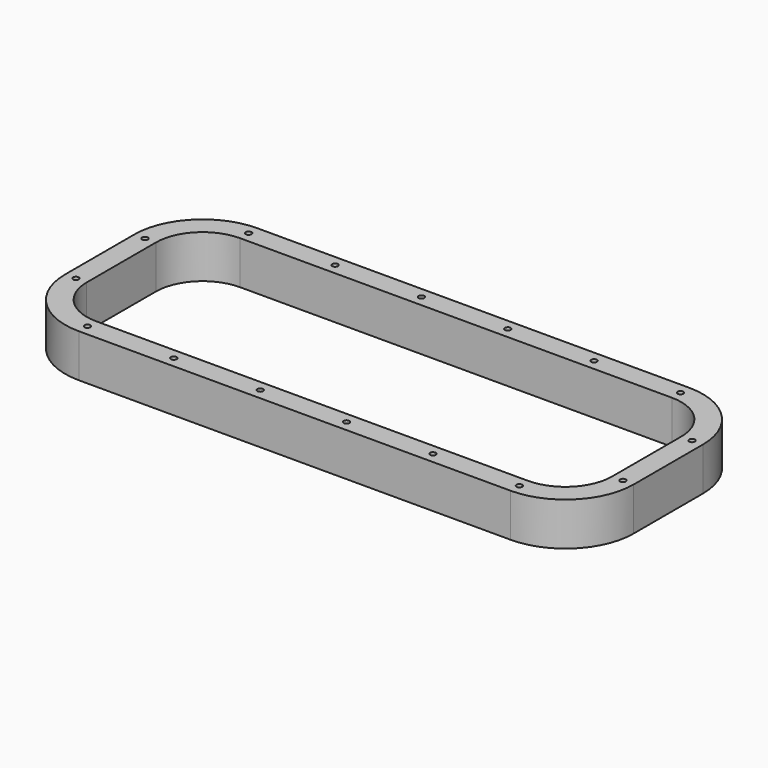
from build123d import *

# Parameters (mm, degrees)
F1_DEPTH = 19.05
F3_DEPTH = 38.101
F4_R     = 2.5527
F5_DEPTH = 38.101


with BuildPart() as f1:
    # F0 (on Top) → F1 (new body, symmetric)
    with BuildSketch(Plane.XY):
        with BuildLine():
            ThreePointArc((250.825, 38.1), (233.1562165751, 80.7562165751), (190.5, 98.425))
            Line((190.5, 98.425), (-190.5, 98.425))
            ThreePointArc((-190.5, 98.425), (-233.1562165751, 80.7562165751), (-250.825, 38.1))
            Line((-250.825, 38.1), (-250.825, -38.1))
            ThreePointArc((-250.825, -38.1), (-233.1562165751, -80.7562165751), (-190.5, -98.425))
            Line((-190.5, -98.425), (190.5, -98.425))
            ThreePointArc((190.5, -98.425), (233.1562165751, -80.7562165751), (250.825, -38.1))
            Line((250.825, -38.1), (250.825, 38.1))
        make_face()
    extrude(amount=F1_DEPTH, both=True)

    # F2 (on face) → F3 (cut, through all)
    with BuildSketch(Plane.XY.offset(19.05)):
        with BuildLine():
            Line((190.5, 79.375), (-190.5, 79.375))
            ThreePointArc((-190.5, 79.375), (-219.6858323935, 67.2858323935), (-231.775, 38.1))
            Line((-231.775, 38.1), (-231.775, -38.1))
            ThreePointArc((-231.775, -38.1), (-219.6858323935, -67.2858323935), (-190.5, -79.375))
            Line((-190.5, -79.375), (190.5, -79.375))
            ThreePointArc((190.5, -79.375), (219.6858323935, -67.2858323935), (231.775, -38.1))
            Line((231.775, -38.1), (231.775, 38.1))
            ThreePointArc((231.775, 38.1), (219.6858323935, 67.2858323935), (190.5, 79.375))
        make_face()
    extrude(amount=-F3_DEPTH, mode=Mode.SUBTRACT)

    # F4 (on face) → F5 (cut, through all)
    with BuildSketch(Plane.XY.offset(19.05)):
        with Locations((-190.5, 88.9)):
            Circle(F4_R)
        with Locations((-38.1, 88.9)):
            Circle(F4_R)
        with Locations((-114.3, 88.9)):
            Circle(F4_R)
        with Locations((38.1, 88.9)):
            Circle(F4_R)
        with Locations((114.3, 88.9)):
            Circle(F4_R)
        with Locations((190.5, 88.9)):
            Circle(F4_R)
        with Locations((241.3000668421, 38.1)):
            Circle(F4_R)
        with Locations((241.3000668421, -38.1)):
            Circle(F4_R)
        with Locations((190.5, -88.9)):
            Circle(F4_R)
        with Locations((114.3, -88.9)):
            Circle(F4_R)
        with Locations((38.1, -88.9)):
            Circle(F4_R)
        with Locations((-38.1, -88.9)):
            Circle(F4_R)
        with Locations((-114.3, -88.9)):
            Circle(F4_R)
        with Locations((-190.5, -88.9)):
            Circle(F4_R)
        with Locations((-241.3, -38.1)):
            Circle(F4_R)
        with Locations((-241.3, 38.1)):
            Circle(F4_R)
    extrude(amount=-F5_DEPTH, mode=Mode.SUBTRACT)


with BuildPart() as f6_1:
    # F6: copy of F1
    add(f1.part)


solid = f1.part
